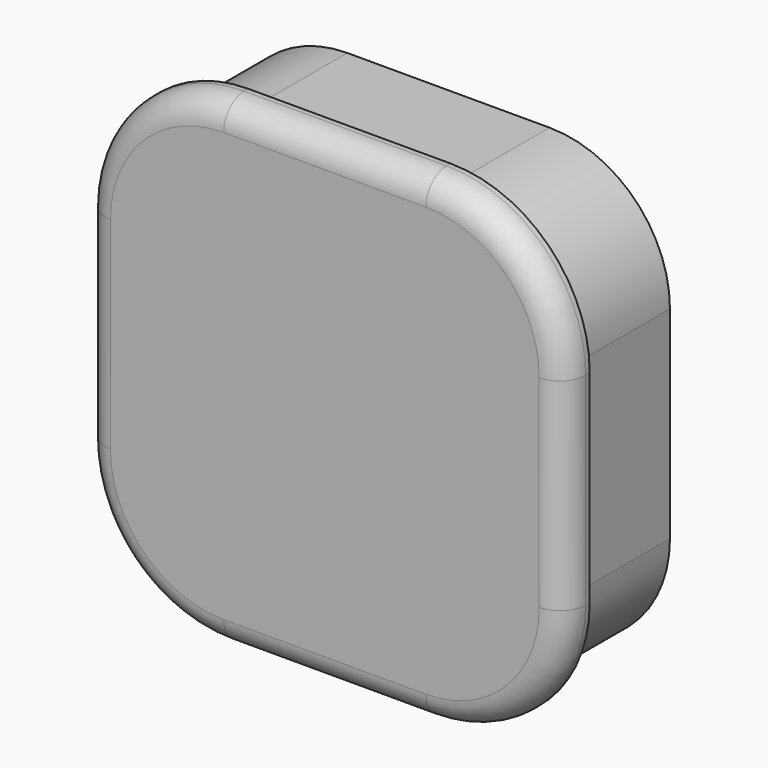
from build123d import *

# Parameters (mm, degrees)
F1_DEPTH = 1.2
F2_DEPTH = 4.8
F3_R     = 1


with BuildPart() as f1:
    # F0 (on Front) → F1 (new body)
    with BuildSketch(Plane.XZ):
        with BuildLine():
            Line((-41.4876210034, 42.7433328658), (-49.3376210034, 42.7433328658))
            ThreePointArc((-49.3376210034, 42.7433328658), (-53.1559976218, 41.1617094842), (-54.7376210034, 37.3433328658))
            Line((-54.7376210034, 37.3433328658), (-54.7376210034, 29.4933328658))
            ThreePointArc((-54.7376210034, 29.4933328658), (-53.1559976218, 25.6749562474), (-49.3376210034, 24.0933328658))
            Line((-49.3376210034, 24.0933328658), (-41.4876210034, 24.0933328658))
            ThreePointArc((-41.4876210034, 24.0933328658), (-37.669244385, 25.6749562474), (-36.0876210034, 29.4933328658))
            Line((-36.0876210034, 29.4933328658), (-36.0876210034, 37.3433328658))
            ThreePointArc((-36.0876210034, 37.3433328658), (-37.669244385, 41.1617094842), (-41.4876210034, 42.7433328658))
        make_face()
        with BuildLine():
            ThreePointArc((-49.3376210034, 24.8183328658), (-52.6433452054, 26.1876086638), (-54.0126210034, 29.4933328658))
            Line((-54.0126210034, 29.4933328658), (-54.0126210034, 37.3433328658))
            ThreePointArc((-54.0126210034, 37.3433328658), (-52.6433452054, 40.6490570679), (-49.3376210034, 42.0183328658))
            Line((-49.3376210034, 42.0183328658), (-41.4876210034, 42.0183328658))
            ThreePointArc((-41.4876210034, 42.0183328658), (-38.1818968013, 40.6490570679), (-36.8126210034, 37.3433328658))
            Line((-36.8126210034, 37.3433328658), (-36.8126210034, 29.4933328658))
            ThreePointArc((-36.8126210034, 29.4933328658), (-38.1818968013, 26.1876086638), (-41.4876210034, 24.8183328658))
            Line((-41.4876210034, 24.8183328658), (-49.3376210034, 24.8183328658))
        make_face(mode=Mode.SUBTRACT)
        with BuildLine():
            Line((-54.0126210034, 37.3433328658), (-54.0126210034, 29.4933328658))
            ThreePointArc((-54.0126210034, 29.4933328658), (-52.6433452054, 26.1876086638), (-49.3376210034, 24.8183328658))
            Line((-49.3376210034, 24.8183328658), (-41.4876210034, 24.8183328658))
            ThreePointArc((-41.4876210034, 24.8183328658), (-38.1818968013, 26.1876086638), (-36.8126210034, 29.4933328658))
            Line((-36.8126210034, 29.4933328658), (-36.8126210034, 37.3433328658))
            ThreePointArc((-36.8126210034, 37.3433328658), (-38.1818968013, 40.6490570679), (-41.4876210034, 42.0183328658))
            Line((-41.4876210034, 42.0183328658), (-49.3376210034, 42.0183328658))
            ThreePointArc((-49.3376210034, 42.0183328658), (-52.6433452054, 40.6490570679), (-54.0126210034, 37.3433328658))
        make_face()
        with BuildLine():
            Line((-52.8626210034, 29.4933328658), (-52.8626210034, 37.3433328658))
            ThreePointArc((-52.8626210034, 37.3433328658), (-51.8301724071, 39.8358842695), (-49.3376210034, 40.8683328658))
            Line((-49.3376210034, 40.8683328658), (-41.4876210034, 40.8683328658))
            ThreePointArc((-41.4876210034, 40.8683328658), (-38.9950695997, 39.8358842695), (-37.9626210034, 37.3433328658))
            Line((-37.9626210034, 37.3433328658), (-37.9626210034, 29.4933328658))
            ThreePointArc((-37.9626210034, 29.4933328658), (-38.9950695997, 27.0007814622), (-41.4876210034, 25.9683328658))
            Line((-41.4876210034, 25.9683328658), (-49.3376210034, 25.9683328658))
            ThreePointArc((-49.3376210034, 25.9683328658), (-51.8301724071, 27.0007814622), (-52.8626210034, 29.4933328658))
        make_face(mode=Mode.SUBTRACT)
        with BuildLine():
            ThreePointArc((-49.3376210034, 40.8683328658), (-51.8301724071, 39.8358842695), (-52.8626210034, 37.3433328658))
            Line((-52.8626210034, 37.3433328658), (-52.8626210034, 29.4933328658))
            ThreePointArc((-52.8626210034, 29.4933328658), (-51.8301724071, 27.0007814622), (-49.3376210034, 25.9683328658))
            Line((-49.3376210034, 25.9683328658), (-41.4876210034, 25.9683328658))
            ThreePointArc((-41.4876210034, 25.9683328658), (-38.9950695997, 27.0007814622), (-37.9626210034, 29.4933328658))
            Line((-37.9626210034, 29.4933328658), (-37.9626210034, 37.3433328658))
            ThreePointArc((-37.9626210034, 37.3433328658), (-38.9950695997, 39.8358842695), (-41.4876210034, 40.8683328658))
            Line((-41.4876210034, 40.8683328658), (-49.3376210034, 40.8683328658))
        make_face()
    extrude(amount=F1_DEPTH)

    # F0 (on Front) → F2 (join)
    with BuildSketch(Plane.XZ):
        with BuildLine():
            Line((-54.0126210034, 37.3433328658), (-54.0126210034, 29.4933328658))
            ThreePointArc((-54.0126210034, 29.4933328658), (-52.6433452054, 26.1876086638), (-49.3376210034, 24.8183328658))
            Line((-49.3376210034, 24.8183328658), (-41.4876210034, 24.8183328658))
            ThreePointArc((-41.4876210034, 24.8183328658), (-38.1818968013, 26.1876086638), (-36.8126210034, 29.4933328658))
            Line((-36.8126210034, 29.4933328658), (-36.8126210034, 37.3433328658))
            ThreePointArc((-36.8126210034, 37.3433328658), (-38.1818968013, 40.6490570679), (-41.4876210034, 42.0183328658))
            Line((-41.4876210034, 42.0183328658), (-49.3376210034, 42.0183328658))
            ThreePointArc((-49.3376210034, 42.0183328658), (-52.6433452054, 40.6490570679), (-54.0126210034, 37.3433328658))
        make_face()
        with BuildLine():
            Line((-52.8626210034, 29.4933328658), (-52.8626210034, 37.3433328658))
            ThreePointArc((-52.8626210034, 37.3433328658), (-51.8301724071, 39.8358842695), (-49.3376210034, 40.8683328658))
            Line((-49.3376210034, 40.8683328658), (-41.4876210034, 40.8683328658))
            ThreePointArc((-41.4876210034, 40.8683328658), (-38.9950695997, 39.8358842695), (-37.9626210034, 37.3433328658))
            Line((-37.9626210034, 37.3433328658), (-37.9626210034, 29.4933328658))
            ThreePointArc((-37.9626210034, 29.4933328658), (-38.9950695997, 27.0007814622), (-41.4876210034, 25.9683328658))
            Line((-41.4876210034, 25.9683328658), (-49.3376210034, 25.9683328658))
            ThreePointArc((-49.3376210034, 25.9683328658), (-51.8301724071, 27.0007814622), (-52.8626210034, 29.4933328658))
        make_face(mode=Mode.SUBTRACT)
    extrude(amount=-F2_DEPTH)

    # F3
    f3_edges = [f1.edges().sort_by_distance(p)[0] for p in [
        (-37.669244, -1.2, 41.161709),
    ]]
    fillet(f3_edges, radius=F3_R)


solid = f1.part
